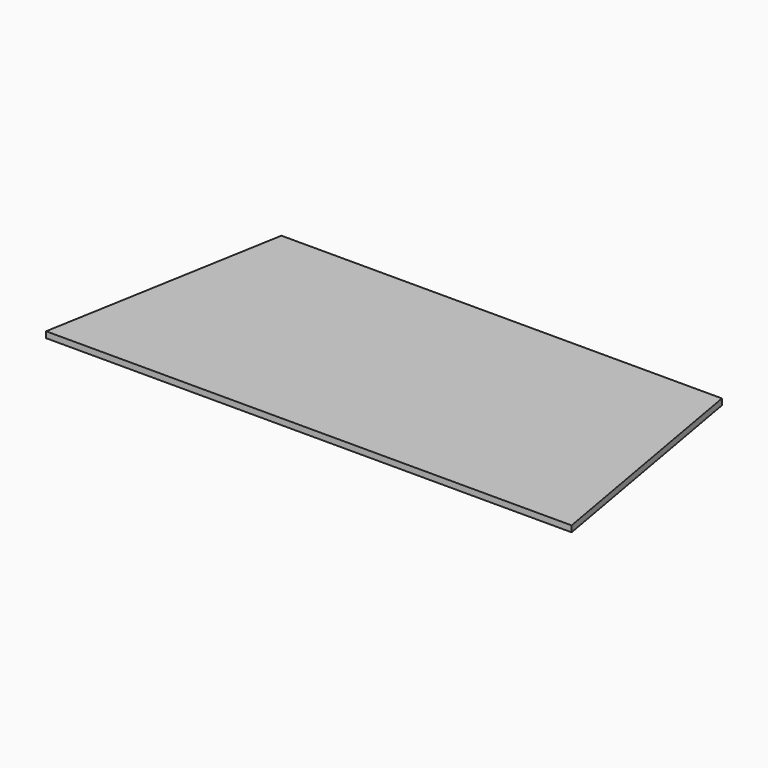
from build123d import *

# Parameters (mm, degrees)
F1_DEPTH = 12.7
F2_DEPTH = 6.35


with BuildPart() as f1:
    # F0 (on Top) → F1 (new body)
    with BuildSketch(Plane.XY):
        Polygon((181.980977, 85.06111), (-275.219023, 85.06111), (-319.32566, -165.080059), (226.087614, -165.080059), align=None)
    extrude(amount=F1_DEPTH)

    # F1_face (on face) → F2 (cut)
    with BuildSketch(Plane(origin=(-46.619023, -43.677518, 12.7), x_dir=(1, 0, 0), z_dir=(0, 0, 1))):
        Polygon((-272.706637, -121.402542), (272.706637, -121.402542), (228.6, 128.738628), (-228.6, 128.738628), align=None)
    extrude(amount=-F2_DEPTH, mode=Mode.SUBTRACT)


solid = f1.part
